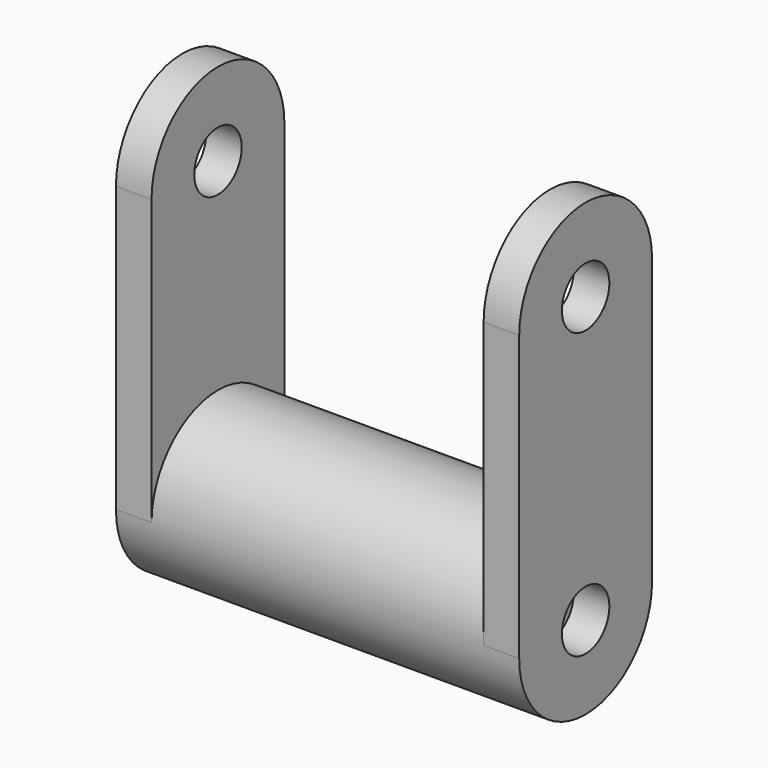
from build123d import *

# Parameters (mm, degrees)
F0_R     = 22.225
F1_DEPTH = 44.45
F2_R     = 7.9375
F3_DEPTH = 9.525


with BuildPart() as f1:
    # F0 (on Right) → F1 (new body, symmetric)
    with BuildSketch(Plane.YZ):
        Circle(F0_R)
    extrude(amount=F1_DEPTH, both=True)

    # F2 (on face) → F3 (join)
    with BuildSketch(Plane(origin=(-44.45, 0, 0), x_dir=(0, -1, 0), z_dir=(-1, 0, 0))):
        with BuildLine():
            Line((-22.225, 76.2), (-22.225, 0))
            ThreePointArc((-22.225, 0), (0, -22.225), (22.225, 0))
            Line((22.225, 0), (22.225, 76.2))
            ThreePointArc((22.225, 76.2), (0, 98.425), (-22.225, 76.2))
        make_face()
        Circle(F2_R, mode=Mode.SUBTRACT)
        with Locations((0, 76.2)):
            Circle(F2_R, mode=Mode.SUBTRACT)
    extrude(amount=F3_DEPTH)

    # F4: F1 across plane


with BuildPart() as f1_1:
    add(f1.part)
    add(f1.part.mirror(Plane.YZ))


solid = f1_1.part
